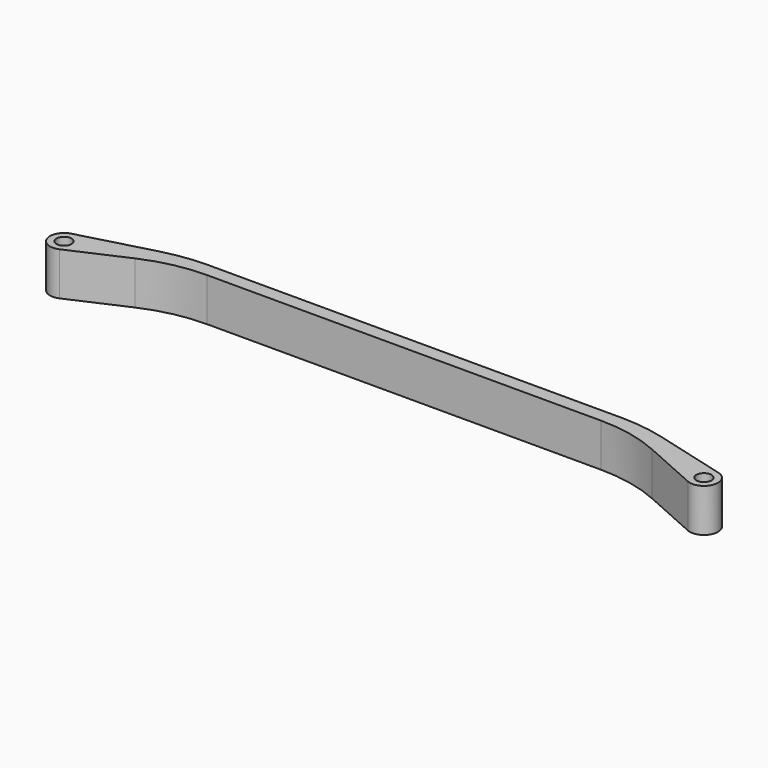
from build123d import *

# Parameters (mm, degrees)
F0_R     = 1.75
F1_DEPTH = 10
F2_R     = 40
F3_R     = 35


with BuildPart() as f1:
    # F0 (on Top) → F1 (new body)
    with BuildSketch(Plane.XY):
        with BuildLine():
            Line((53, 0), (0, 0))
            Line((0, 0), (-53, 0))
            Line((-53, 0), (-74.842291, -5.861044))
            ThreePointArc((-74.842291, -5.861044), (-77.063211, -10.085928), (-72.677128, -11.968587))
            Line((-72.677128, -11.968587), (-53, -3.2))
            Line((-53, -3.2), (0, -3.2))
            Line((0, -3.2), (53, -3.2))
            Line((53, -3.2), (72.677128, -11.968587))
            ThreePointArc((72.677128, -11.968587), (77.063211, -10.085928), (74.842291, -5.861044))
            Line((74.842291, -5.861044), (53, 0))
        make_face()
        with Locations((-74, -9)):
            Circle(F0_R, mode=Mode.SUBTRACT)
        with Locations((74, -9)):
            Circle(F0_R, mode=Mode.SUBTRACT)
    extrude(amount=F1_DEPTH)

    # F2
    f2_edges = [f1.edges().sort_by_distance(p)[0] for p in [
        (53, 0, 5),
        (-53, 0, 5),
    ]]
    fillet(f2_edges, radius=F2_R)

    # F3
    f3_edges = [f1.edges().sort_by_distance(p)[0] for p in [
        (-53, -3.2, 5),
        (53, -3.2, 5),
    ]]
    fillet(f3_edges, radius=F3_R)


solid = f1.part
